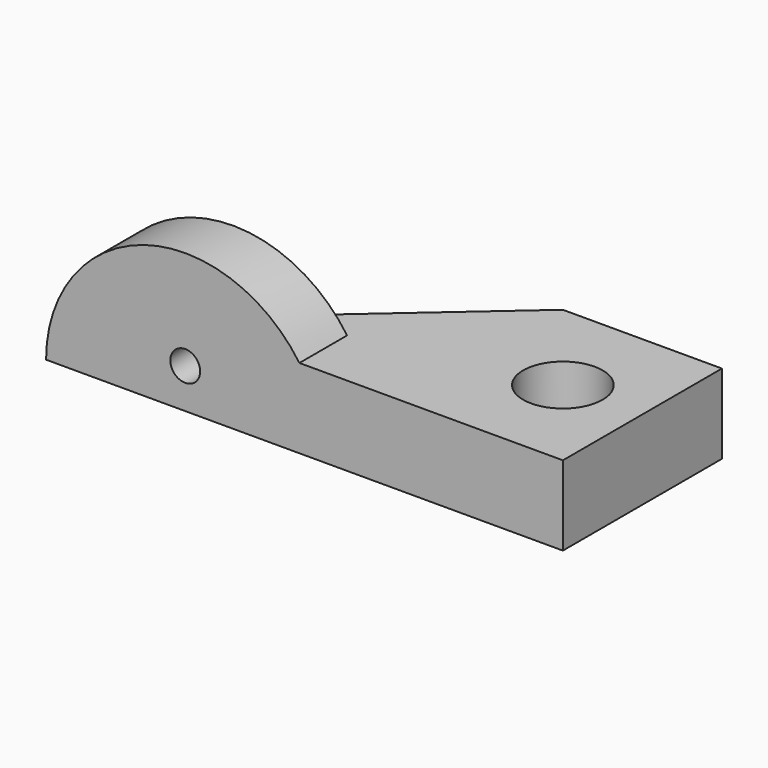
from build123d import *

# Parameters (mm, degrees)
SKETCH_R         = 2
EXTRUDE_DEPTH    = 2
SKETCH001_R      = 0.75
HOLE_DEPTH       = 3.001
SKETCH002_W      = 3
SKETCH002_H      = 3
REVOLUTION_ANGLE = -180


with BuildPart() as part:
    # Sketch → Extrude (new body, symmetric)
    with BuildSketch(Plane.XY):
        Polygon((-4, 5), (4, 5), (4, -5), (-4, -5), (-19, -5), (-19, -2), (-12, -2), align=None)
        Circle(SKETCH_R, mode=Mode.SUBTRACT)
    extrude(amount=EXTRUDE_DEPTH, both=True)

    # Sketch001 (on Face6 of Extrude) → Hole (cut, through all)
    with BuildSketch(Plane(origin=(0, -2, 0), x_dir=(-1, 0, 0), z_dir=(0, 1, 0))):
        with Locations((15, 0)):
            Circle(SKETCH001_R)
    extrude(amount=-HOLE_DEPTH, mode=Mode.SUBTRACT)

    # Sketch002 (on Face4 of Hole) → Revolution (revolve)
    with BuildSketch(Plane(origin=(0, 0, -2), x_dir=(1, 0, 0), z_dir=(0, 0, -1))):
        with Locations((-20.5, 3.5)):
            Rectangle(SKETCH002_W, SKETCH002_H)
    revolve(axis=Axis((-15, -5, -2), (0, -1, 0)), revolution_arc=REVOLUTION_ANGLE)


solid = part.part
